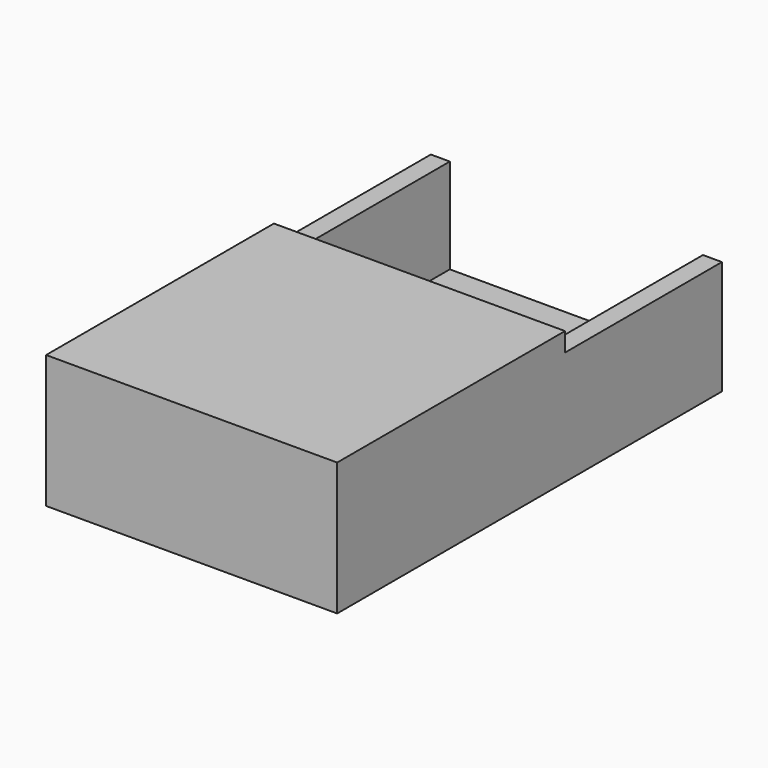
from build123d import *

# Parameters (mm, degrees)
F0_W     = 46
F0_H     = 76
F1_DEPTH = 3
F2_W     = 46
F2_H     = 76
F2_W_2   = 40
F2_H_2   = 70
F3_DEPTH = 15
F5_DEPTH = 25
F6_W     = 40
F6_H     = 42
F7_DEPTH = 3
F8_DEPTH = 25


with BuildPart() as f1:
    # F0 (on Top) → F1 (new body)
    with BuildSketch(Plane.XY):
        Rectangle(F0_W, F0_H)
    extrude(amount=F1_DEPTH)

    # F2 (on face) → F3 (join)
    with BuildSketch(Plane.XY.offset(3)):
        Rectangle(F2_W, F2_H)
        Rectangle(F2_W_2, F2_H_2, mode=Mode.SUBTRACT)
    extrude(amount=F3_DEPTH)

    # F4 (on face) → F5 (cut)
    with BuildSketch(Plane.XY.offset(3)):
        with BuildLine():
            Line((-10, 28), (-7.0000000819, 28))
            ThreePointArc((-7, 28), (-4, 31.000000041), (-7.0000000819, 34))
            Line((-7.0000000819, 34), (-10, 34))
            ThreePointArc((-10, 34), (-13, 31), (-10, 28))
        make_face()
        with BuildLine():
            Line((10, 34), (7, 34))
            ThreePointArc((7, 34), (4, 31), (7, 28))
            Line((7, 28), (10, 28))
            ThreePointArc((10, 28), (13, 31), (10, 34))
        make_face()
    extrude(amount=-F5_DEPTH, mode=Mode.SUBTRACT)

    # F6 (on face) → F7 (join)
    with BuildSketch(Plane.XY.offset(18)):
        Polygon((-23, 7), (-23, -38), (23, -38), (23, 7), (20, 7), (20, -35), (-20, -35), (-20, 7), align=None)
        with Locations((0, -14)):
            Rectangle(F6_W, F6_H)
    extrude(amount=F7_DEPTH)

    # F8 (cut): a face of the model
    f8_faces = [f1.faces().sort_by_distance(p)[0] for p in [
        (0, 35, 10.5),
    ]]
    extrude(f8_faces, amount=-F8_DEPTH, mode=Mode.SUBTRACT)


solid = f1.part
